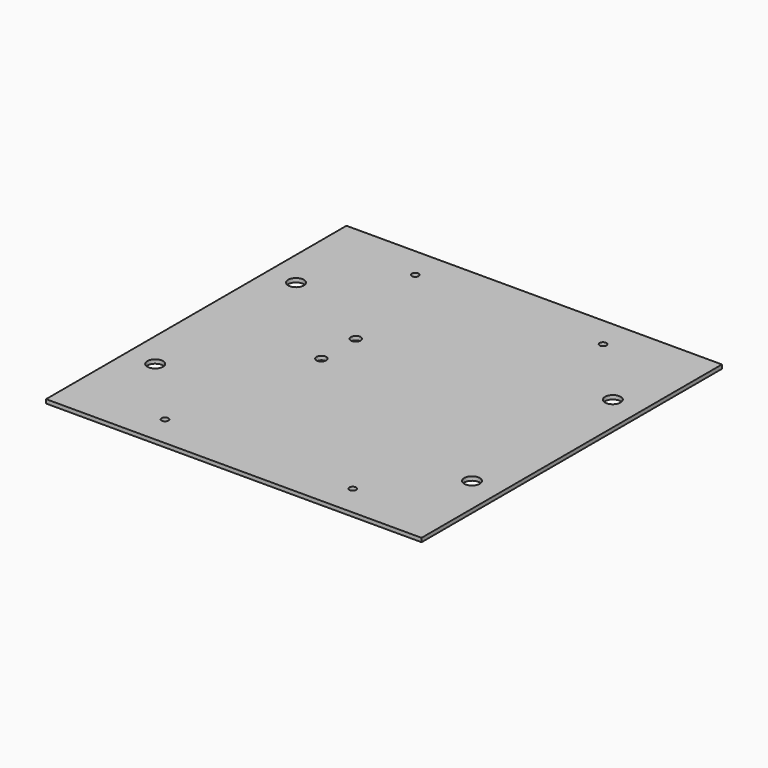
from build123d import *

# Parameters (mm, degrees)
F0_W     = 304.8
F0_H     = 304.8
F0_R     = 2.778125
F0_R_2   = 6.35
F0_R_3   = 3.96875
F1_DEPTH = 3.175


with BuildPart() as f1:
    # F0 (on Top) → F1 (new body)
    with BuildSketch(Plane.XY):
        Rectangle(F0_W, F0_H)
        with Locations((-76.2, -127)):
            Circle(F0_R, mode=Mode.SUBTRACT)
        with Locations((-128.5875, -71.4375)):
            Circle(F0_R_2, mode=Mode.SUBTRACT)
        with Locations((76.2, -127)):
            Circle(F0_R, mode=Mode.SUBTRACT)
        with Locations((128.5875, -71.4375)):
            Circle(F0_R_2, mode=Mode.SUBTRACT)
        with Locations((-128.5875, 71.4375)):
            Circle(F0_R_2, mode=Mode.SUBTRACT)
        with Locations((-50.8, 0)):
            Circle(F0_R_3, mode=Mode.SUBTRACT)
        with Locations((-50.8, 34.925)):
            Circle(F0_R_3, mode=Mode.SUBTRACT)
        with Locations((-76.2, 127)):
            Circle(F0_R, mode=Mode.SUBTRACT)
        with Locations((128.5875, 71.4375)):
            Circle(F0_R_2, mode=Mode.SUBTRACT)
        with Locations((76.2, 127)):
            Circle(F0_R, mode=Mode.SUBTRACT)
    extrude(amount=F1_DEPTH)


solid = f1.part
